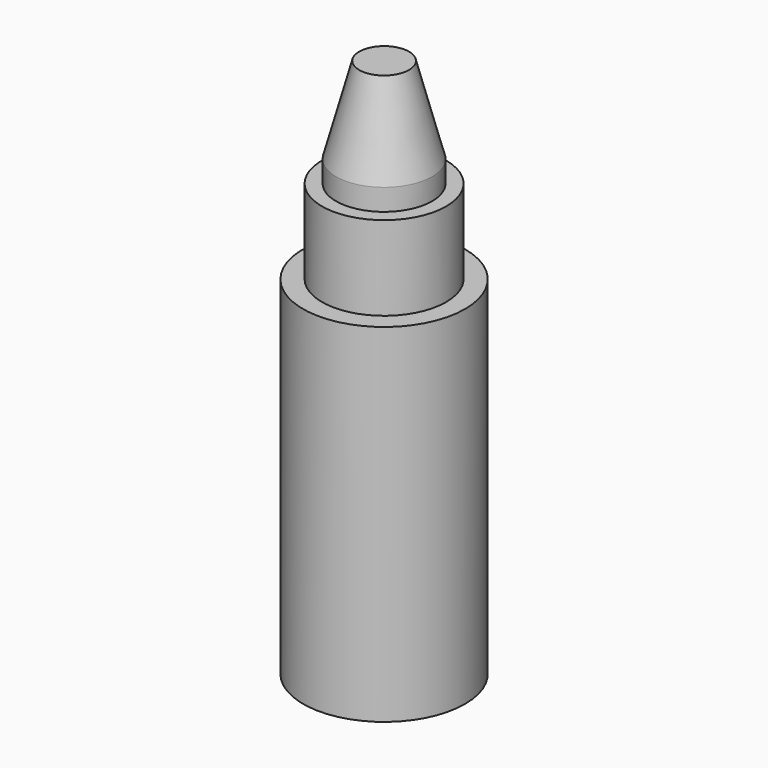
from build123d import *

# Parameters (mm, degrees)
F2_SIZE2 = 2.1435935394
F2_SIZE  = 8
F4_D     = 4.5
F4_DEPTH = 30
F4_TIP   = 1.3519363928


with BuildPart() as f1:
    # F0 (on Front) → F1 (revolve)
    with BuildSketch(Plane.XZ):
        Polygon((0, 50), (0, 0), (7.5, 0), (7.5, 32.2), (5.75, 32.2), (5.75, 40), (4.45, 40), (4.45, 50), align=None)
    revolve(axis=Axis((0, 0, 25), (0, 0, 1)))

    # F2
    f2_edges = [f1.edges().sort_by_distance(p)[0] for p in [
        (-4.45, 0, 50),
    ]]
    chamfer(f2_edges, length=F2_SIZE, length2=F2_SIZE2)

    # F4
    with Locations(Plane(origin=(0, 0, 0), x_dir=(1, 0, 0), z_dir=(0, 0, -1))):
        with Locations((0, 0)):
            Hole(F4_D / 2, depth=F4_DEPTH)
            with Locations((0, 0, -(F4_DEPTH + F4_TIP / 2))):  # 118° drill point
                Cone(0, F4_D / 2, F4_TIP, mode=Mode.SUBTRACT)


solid = f1.part
